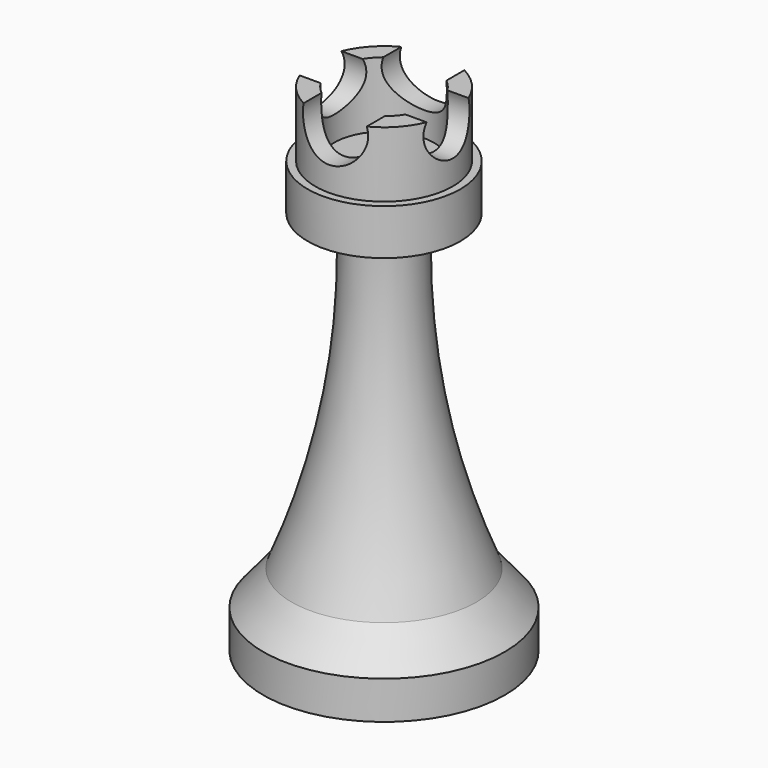
from build123d import *

# Parameters (mm, degrees)
F2_W      = 14.063794
F2_H      = 1.89093
F2_H_2    = 2.54
F4_R      = 8.89
F5_DEPTH  = 5.334
F6_R      = 8.003634
F6_R_2    = 5.807909
F7_DEPTH  = 7.62
F8_R      = 3.79686
F9_DEPTH  = 25.4
F10_DEPTH = 98.552
F11_R     = 3.354898
F12_DEPTH = 25.4
F13_DEPTH = 156.972


with BuildPart() as f1:
    # F0 (on Front) → F1 (revolve)
    with BuildSketch(Plane.XZ):
        with BuildLine():
            Line((0, 36.400415), (0, 0))
            Line((0, 0), (10.754668, 0))
            ThreePointArc((10.754668, 0), (5.545952, 17.846443), (4.372776, 36.400415))
            Line((4.372776, 36.400415), (0, 36.400415))
        make_face()
    revolve(axis=Axis((0, 0, 22.225), (0, 0, 1)))

    # F2 (on Front) → F3 (revolve)
    with BuildSketch(Plane.XZ):
        Polygon((10.754665, 0), (0, 0), (0, -4.018228), (14.063794, -4.018228), align=None)
        with Locations((7.031897, -4.963693)):
            Rectangle(F2_W, F2_H)
        with Locations((7.031897, -7.179158)):
            Rectangle(F2_W, F2_H_2)
    revolve(axis=Axis((0, 0, -4.963693), (0, 0, 1)))

    # F4 (on face) → F5 (join)
    with BuildSketch(Plane.XY.offset(36.400415)):
        Circle(F4_R)
    extrude(amount=F5_DEPTH)

    # F6 (on face) → F7 (join)
    with BuildSketch(Plane.XY.offset(41.734415)):
        Circle(F6_R)
        Circle(F6_R_2, mode=Mode.SUBTRACT)
    extrude(amount=F7_DEPTH)

    # F8 (on Front) → F9 (cut)
    with BuildSketch(Plane.XZ):
        with Locations((0, 48.400268)):
            Circle(F8_R)
    extrude(amount=-F9_DEPTH, mode=Mode.SUBTRACT)

    # F8 (on Front) → F10 (cut)
    with BuildSketch(Plane.XZ):
        with Locations((0, 48.400268)):
            Circle(F8_R)
    extrude(amount=F10_DEPTH, mode=Mode.SUBTRACT)

    # F11 (on Right) → F12 (cut)
    with BuildSketch(Plane.YZ):
        with Locations((0, 47.958534)):
            Circle(F11_R)
    extrude(amount=-F12_DEPTH, mode=Mode.SUBTRACT)

    # F11 (on Right) → F13 (cut)
    with BuildSketch(Plane.YZ):
        with Locations((0, 47.958534)):
            Circle(F11_R)
    extrude(amount=F13_DEPTH, mode=Mode.SUBTRACT)


solid = f1.part
